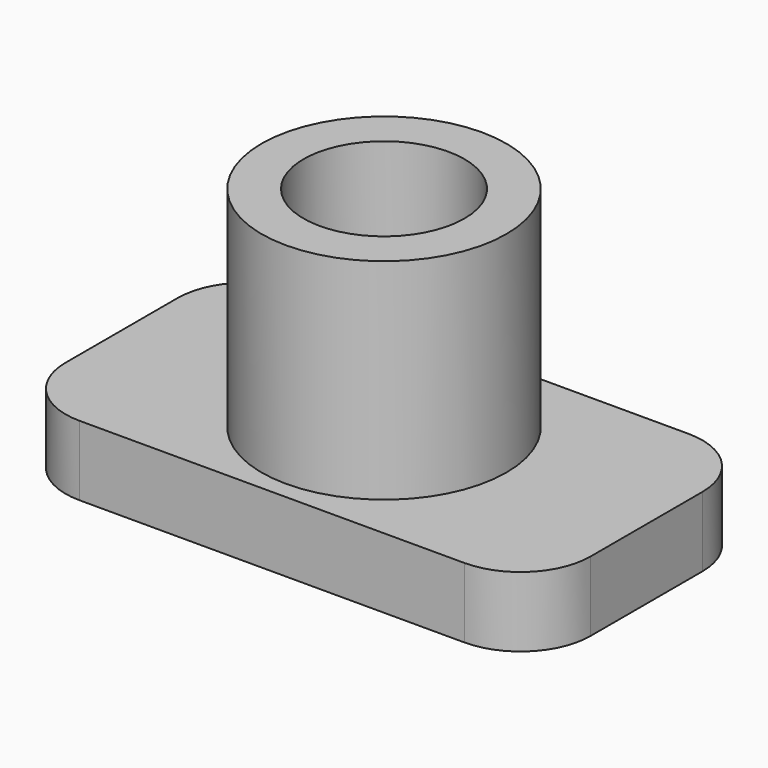
from build123d import *

# Parameters (mm, degrees)
F0_R     = 3.5
F0_R_2   = 2
F1_DEPTH = 8
F2_R     = 2.3
F2_R_2   = 2
F3_DEPTH = 6
F4_R     = 3.5
F5_DEPTH = 2


with BuildPart() as f1:
    # F0 (on Top) → F1 (new body)
    with BuildSketch(Plane.XY):
        Circle(F0_R)
        Circle(F0_R_2, mode=Mode.SUBTRACT)
    extrude(amount=F1_DEPTH)

    # F2 (on face) → F3 (cut)
    with BuildSketch(Plane.XY.offset(8)):
        Circle(F2_R)
        Circle(F2_R_2, mode=Mode.SUBTRACT)
    extrude(amount=-F3_DEPTH, mode=Mode.SUBTRACT)

    # F4 (on Top) → F5 (join)
    with BuildSketch(Plane.XY):
        with BuildLine():
            Line((5.5, 4), (-5.5, 4))
            ThreePointArc((-5.5, 4), (-6.914214, 3.414214), (-7.5, 2))
            Line((-7.5, 2), (-7.5, -2))
            ThreePointArc((-7.5, -2), (-6.914214, -3.414214), (-5.5, -4))
            Line((-5.5, -4), (5.5, -4))
            ThreePointArc((5.5, -4), (6.914214, -3.414214), (7.5, -2))
            Line((7.5, -2), (7.5, 2))
            ThreePointArc((7.5, 2), (6.914214, 3.414214), (5.5, 4))
        make_face()
        Circle(F4_R, mode=Mode.SUBTRACT)
    extrude(amount=F5_DEPTH)


solid = f1.part
